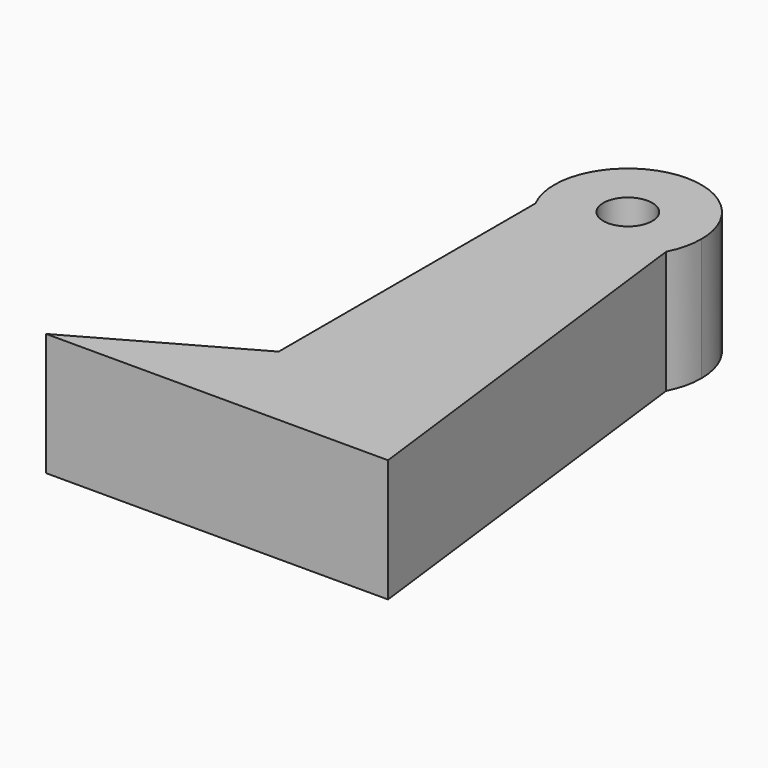
from build123d import *

# Parameters (mm, degrees)
F0_W     = 26.6575910372
F0_H     = 13.761280467
F1_DEPTH = 25
F2_R     = 5
F3_DEPTH = 25


with BuildPart() as f1:
    # F0 (on Top) → F1 (new body)
    with BuildSketch(Plane.XY):
        with BuildLine():
            ThreePointArc((13.3287955186, -6.8806402335), (14.5762123472, -3.5403437136), (15, 0))
            ThreePointArc((15, 0), (14.5762123472, 3.5403437136), (13.3287955186, 6.8806402335))
            Line((13.3287955186, 6.8806402335), (13.3287955186, -6.8806402335))
        make_face()
        with BuildLine():
            Line((-13.3287955186, 6.8806402335), (13.3287955186, 6.8806402335))
            ThreePointArc((13.3287955186, 6.8806402335), (0, 15), (-13.3287955186, 6.8806402335))
        make_face()
        Rectangle(F0_W, F0_H)
        with BuildLine():
            Line((23.667704314, -90.7221734524), (13.3287955186, -6.8806402335))
            ThreePointArc((13.3287955186, -6.8806402335), (0, -15), (-13.3287955186, -6.8806402335))
            Line((-13.3287955186, -6.8806402335), (-13.3287955186, -42.6136367023))
            Line((-13.3287955186, -42.6136367023), (-13.3287955186, -72.3435208201))
            Line((-13.3287955186, -72.3435208201), (-46.06308043, -90.7221734524))
            Line((-46.06308043, -90.7221734524), (23.667704314, -90.7221734524))
        make_face()
        with BuildLine():
            ThreePointArc((-13.3287955186, -6.8806402335), (0, -15), (13.3287955186, -6.8806402335))
            Line((13.3287955186, -6.8806402335), (-13.3287955186, -6.8806402335))
        make_face()
        with BuildLine():
            Line((-13.3287955186, -6.8806402335), (-13.3287955186, 6.8806402335))
            ThreePointArc((-13.3287955186, 6.8806402335), (-15, 0), (-13.3287955186, -6.8806402335))
        make_face()
    extrude(amount=F1_DEPTH)

    # F2 (on face) → F3 (cut)
    with BuildSketch(Plane.XY.offset(25)):
        Circle(F2_R)
    extrude(amount=-F3_DEPTH, mode=Mode.SUBTRACT)


solid = f1.part
